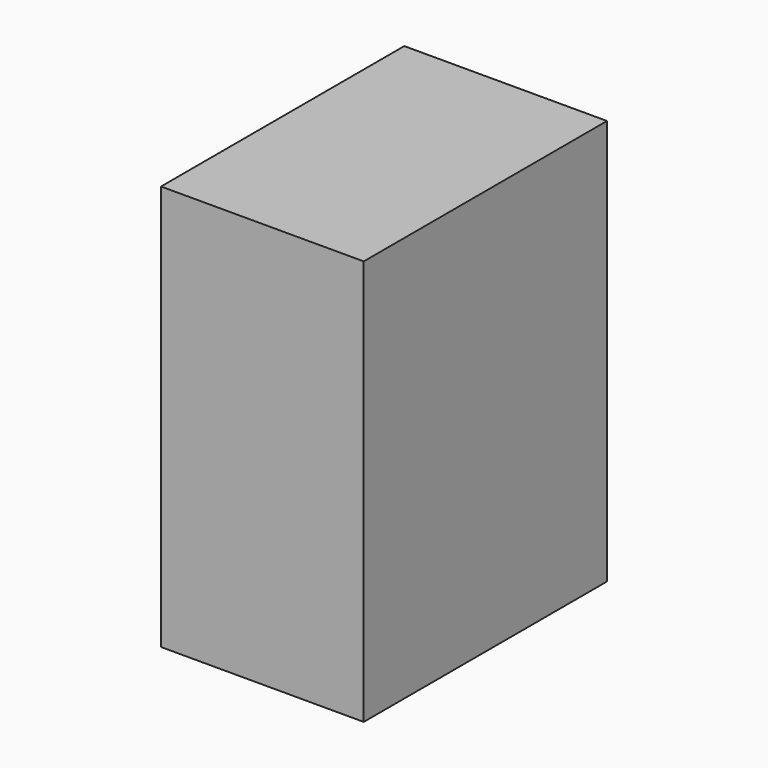
from build123d import *

# Parameters (mm, degrees)
BOX_W     = 20
BOX_H     = 30
BOX_DEPTH = 40


with BuildPart() as part:
    # Box → Box (new body)
    with BuildSketch(Plane.XY):
        with Locations((10, 15)):
            Rectangle(BOX_W, BOX_H)
    extrude(amount=BOX_DEPTH)


solid = part.part
